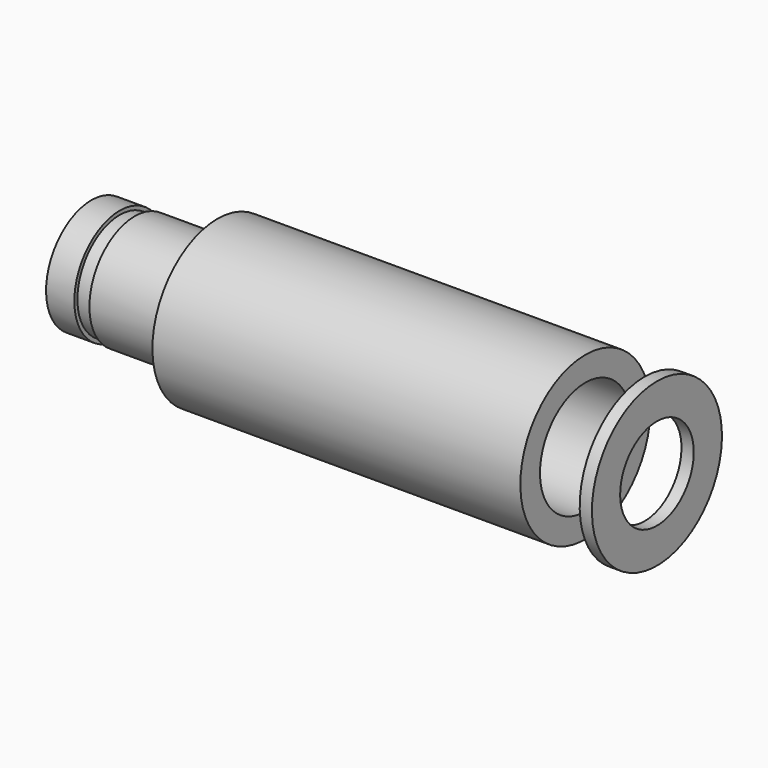
from build123d import *

# Parameters (mm, degrees)
F0_W = 120
F0_H = 8
F4_W = 4
F4_H = 11.5


with BuildPart() as f1:
    # F0 (on Front) → F1 (revolve)
    with BuildSketch(Plane.XZ):
        with Locations((60, 22.5)):
            Rectangle(F0_W, F0_H)
    revolve(axis=Axis((70.710246, 0, 0), (-1, 0, 0)))


with BuildPart() as f3:
    # F2 (on Front) → F3 (revolve)
    with BuildSketch(Plane.XZ):
        Polygon((-31.863008, 18.5), (-41.085526, 18.5), (-41.085526, 17.5), (-31.01633, 5.5), (-27.01633, 5.5), (-0.891974, 12.5), (-0.891974, 18.5), (-26.945636, 18.5), (-26.945636, 17.251454), (-31.863008, 17.251454), align=None)
    revolve(axis=Axis((-18.90575, 0, 0), (-1, 0, 0)))


with BuildPart() as f5:
    # F4 (on Front) → F5 (revolve)
    with BuildSketch(Plane.XZ):
        with Locations((141.347285, 20.75)):
            Rectangle(F4_W, F4_H)
    revolve(axis=Axis((106.369392, 0, 0), (1, 0, 0)))


solid = Compound([f1.part, f3.part, f5.part])
